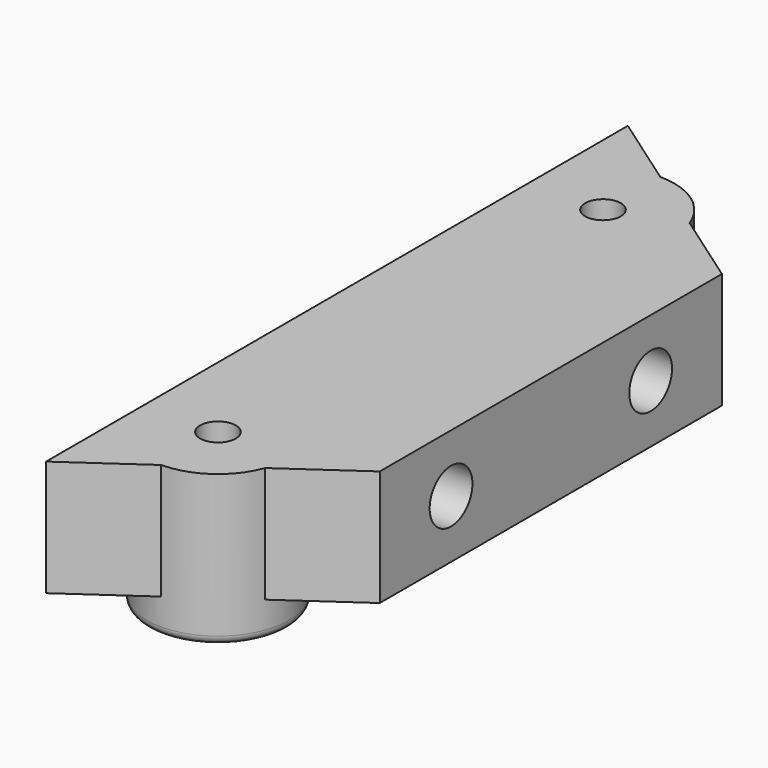
from build123d import *

# Parameters (mm, degrees)
SKETCH020_R      = 1.5
EXTRUDE013_DEPTH = 100
SKETCH019_R      = 4
EXTRUDE012_DEPTH = 10
EXTRUDE014_DEPTH = 6.5
FILLET017_R      = 0.5
FILLET018_R      = 0.5


with BuildPart() as extrude013:
    # Sketch020 → Extrude013 (new body)
    with BuildSketch(Plane.YZ.offset(34.5)):
        with Locations((-7, -18.25)):
            Circle(SKETCH020_R)
        with Locations((7, -18.25)):
            Circle(SKETCH020_R)
    extrude(amount=-EXTRUDE013_DEPTH)


with BuildPart() as extrude012:
    # Sketch019 → Extrude012 (new body, symmetric)
    with BuildSketch(Plane.XY.offset(-20)):
        with Locations((26.625, 13.5)):
            Circle(SKETCH019_R)
        with Locations((26.625, -13.5)):
            Circle(SKETCH019_R)
    extrude(amount=EXTRUDE012_DEPTH, both=True)


with BuildPart() as extrude014:
    # Sketch022 → Extrude014 (new body)
    with BuildSketch(Plane(origin=(0, 0, -15), x_dir=(1, 0, 0), z_dir=(0, 0, -1))):
        Polygon((-22.5, 20.399377), (-22.5, -20.399423), (-34.5, -11.996933), (-34.5, 11.996887), align=None)
    extrude(amount=EXTRUDE014_DEPTH)


with BuildPart() as cut012:
    # Part__Mirroring001: instance of Extrude014
    add(extrude014.part.mirror(Plane(origin=(0, 0, 0), x_dir=(0, -1, 0), z_dir=(1, 0, 0))))

    # Cut011: cut Extrude012
    add(extrude012.part, mode=Mode.SUBTRACT)

    # Cut012: cut Extrude013
    add(extrude013.part, mode=Mode.SUBTRACT)


with BuildPart() as fillet017:
    # Sketch041 → Revolve003 (revolve)
    with BuildSketch(Plane.XZ):
        Polygon((22.625, -15), (22.625, -23.5), (24.025, -23.5), (25.025, -21.333333), (24.025, -21.333333), (25.025, -19.166667), (24.025, -19.166667), (25.025, -17), (25.625, -17), (25.625, -15), align=None)
    revolve(axis=Axis((26.625, 0, 0), (0, 0, 1)))


with BuildPart() as fillet017_1:
    # Revolve003 placement: moved
    add(fillet017.part.moved(Location((0, 13.5, 0))))

    # Fillet017
    fillet017_edges = [fillet017_1.edges().sort_by_distance(p)[0] for p in [
        (30.625, 13.5, -23.5),
    ]]
    fillet(fillet017_edges, radius=FILLET017_R)


with BuildPart() as fillet018:
    # Sketch042 → Revolve004 (revolve)
    with BuildSketch(Plane.XZ):
        Polygon((22.625, -15), (22.625, -23.5), (24.025, -23.5), (25.025, -21.333333), (24.025, -21.333333), (25.025, -19.166667), (24.025, -19.166667), (25.025, -17), (25.625, -17), (25.625, -15), align=None)
    revolve(axis=Axis((26.625, 0, 0), (0, 0, 1)))


with BuildPart() as fillet018_1:
    # Revolve004 placement: moved
    add(fillet018.part.moved(Location((0, 13.5, 0))))

    # Fillet018
    fillet018_edges = [fillet018_1.edges().sort_by_distance(p)[0] for p in [
        (30.625, 13.5, -23.5),
    ]]
    fillet(fillet018_edges, radius=FILLET018_R)


with BuildPart() as boden_tube_bracket_w_one_way_fitting:
    # Part__Mirroring002: instance of Fillet018
    add(fillet018_1.part.mirror(Plane(origin=(0, 0, 0), x_dir=(1, 0, 0), z_dir=(0, 1, 0))))

    # Fusion014: union Cut012, Fillet017
    add(cut012.part)
    add(fillet017_1.part)


solid = boden_tube_bracket_w_one_way_fitting.part
